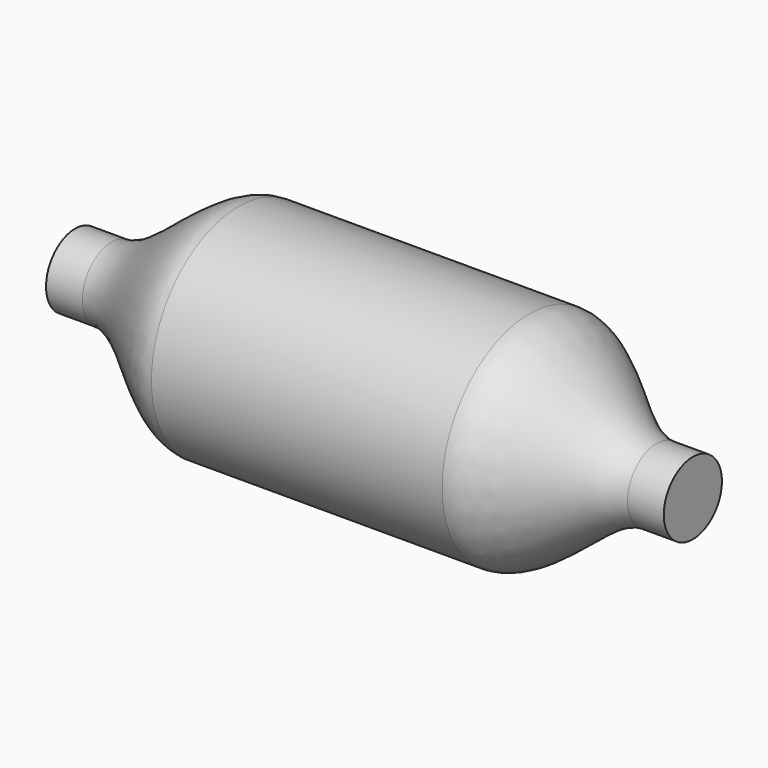
from build123d import *


with BuildPart() as f1:
    # F0 (on Top) → F1 (revolve)
    with BuildSketch(Plane.XY):
        with BuildLine():
            Line((-36.538901, 10), (-46.538901, 10))
            Line((-46.538901, 10), (-46.538901, 0))
            Line((-46.538901, 0), (123.461099, 0))
            Line((123.461099, 0), (123.461099, 10))
            Line((123.461099, 10), (113.461099, 10))
            add(Edge.make_bspline(
                [(78.461099, 30), (89.132972, 30), (102.789225, 10), (113.461099, 10)],
                knots=[0, 0, 0, 0, 40.311289, 40.311289, 40.311289, 40.311289], degree=3))
            Line((78.461099, 30), (-1.538901, 30))
            add(Edge.make_bspline(
                [(-1.538901, 30), (-12.210775, 30), (-25.867028, 10), (-36.538901, 10)],
                knots=[0, 0, 0, 0, 40.311289, 40.311289, 40.311289, 40.311289], degree=3))
        make_face()
    revolve(axis=Axis((15.960287, 0, 0), (1, 0, 0)))


solid = f1.part
